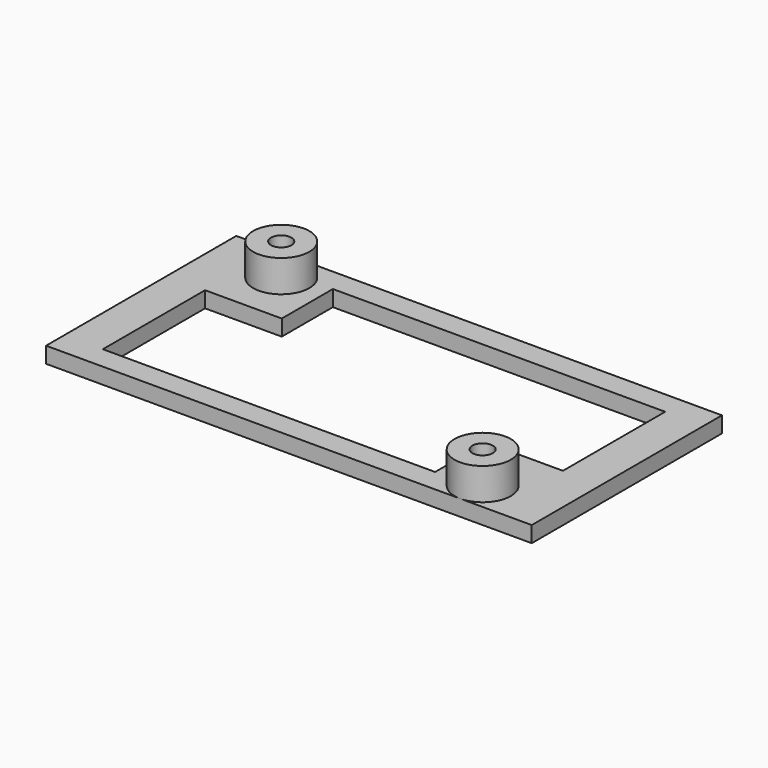
from build123d import *

# Parameters (mm, degrees)
F0_W     = 48.26
F0_H     = 23.622
F1_DEPTH = 1.5875
F2_R     = 2.794
F2_R_2   = 1.016
F3_DEPTH = 3.175
F4_DEPTH = 6.35
F5_W     = 7.62
F5_H     = 12.7
F6_DEPTH = 6.35


with BuildPart() as f1:
    # F0 (on Top) → F1 (new body)
    with BuildSketch(Plane.XY):
        Rectangle(F0_W, F0_H)
    extrude(amount=F1_DEPTH)

    # F2 (on face) → F3 (join)
    with BuildSketch(Plane.XY.offset(1.5875)):
        with Locations((-17.018, 8.509)):
            Circle(F2_R)
        with Locations((-17.018, 8.509)):
            Circle(F2_R_2, mode=Mode.SUBTRACT)
        with Locations((17.018, -9.017)):
            Circle(F2_R)
        with Locations((17.018, -9.017)):
            Circle(F2_R_2, mode=Mode.SUBTRACT)
        with Locations((-17.018, 8.509)):
            Circle(F2_R)
        with Locations((-17.018, 8.509)):
            Circle(F2_R_2, mode=Mode.SUBTRACT)
        with BuildLine():
            ThreePointArc((17.018, -11.811), (18.993656, -10.992656), (19.812, -9.017))
            ThreePointArc((19.812, -9.017), (15.042344, -7.041344), (17.018, -11.811))
        make_face()
        with Locations((17.018, -9.017)):
            Circle(F2_R_2, mode=Mode.SUBTRACT)
    extrude(amount=F3_DEPTH)

    # F2 (on face) → F4 (cut)
    with BuildSketch(Plane.XY.offset(1.5875)):
        with Locations((-17.018, 8.509)):
            Circle(F2_R_2)
        with Locations((17.018, -9.017)):
            Circle(F2_R_2)
    extrude(amount=-F4_DEPTH, mode=Mode.SUBTRACT)

    # F5 (on face) → F6 (cut)
    with BuildSketch(Plane.XY.offset(1.5875)):
        Polygon((-12.7, -9.525), (12.7, -9.525), (12.7, -3.175), (12.7, 9.525), (-12.7, 9.525), (-12.7, 3.175), align=None)
        with Locations((16.51, 3.175)):
            Rectangle(F5_W, F5_H)
        with Locations((-16.51, -3.175)):
            Rectangle(F5_W, F5_H)
    extrude(amount=-F6_DEPTH, mode=Mode.SUBTRACT)


solid = f1.part
